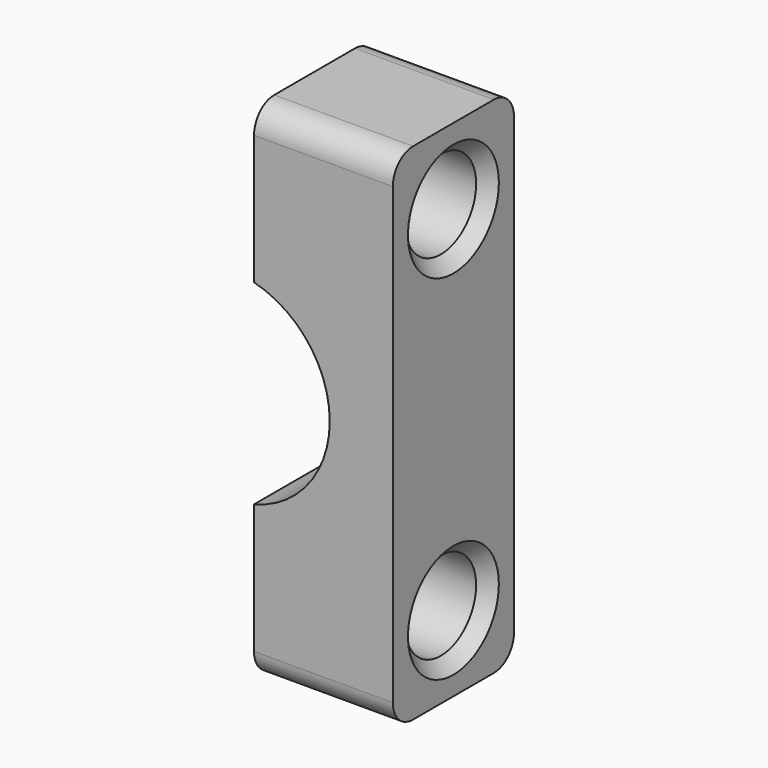
from build123d import *

# Parameters (mm, degrees)
PAD137_DEPTH    = 6
SKETCH639_R     = 1.75
POCKET460_DEPTH = 6.501
CHAMFER026_SIZE = 0.5
FILLET025_R     = 1


with BuildPart() as xy_rod_clamp_left:
    # Sketch638 → Pad137 (new body)
    with BuildSketch(Plane.XZ.offset(1)):
        with BuildLine():
            Line((-1, 3.872983), (-1, 10))
            Line((-1, 10), (-6.5, 10))
            Line((-6.5, 10), (-6.5, -10))
            Line((-6.5, -10), (-1, -10))
            Line((-1, -10), (-1, -3.872983))
            ThreePointArc((-1, 3.872983), (-4, 0), (-1, -3.872983))
        make_face()
    extrude(amount=PAD137_DEPTH)

    # Sketch639 → Pocket460 (cut, through all)
    with BuildSketch(Plane.YZ):
        with Locations((-4, 7)):
            Circle(SKETCH639_R)
        with Locations((-4, -7)):
            Circle(SKETCH639_R)
    extrude(amount=-POCKET460_DEPTH, mode=Mode.SUBTRACT)

    # Chamfer026
    chamfer026_edges = [xy_rod_clamp_left.edges().sort_by_distance(p)[0] for p in [
        (-6.5, -5.75, 7),
        (-6.5, -5.75, -7),
    ]]
    chamfer(chamfer026_edges, length=CHAMFER026_SIZE)

    # Fillet025
    fillet025_edges = [xy_rod_clamp_left.edges().sort_by_distance(p)[0] for p in [
        (-3.75, -7, 10),
        (-3.75, -1, 10),
        (-3.75, -1, -10),
        (-3.75, -7, -10),
    ]]
    fillet(fillet025_edges, radius=FILLET025_R)


with BuildPart() as xy_rod_clamp_left_1:
    # Body201 placement: moved
    add(xy_rod_clamp_left.part.moved(Location((-160, 150, 0))))


with BuildPart() as xy_rod_clamp_right:
    # Part__Mirroring096: instance of xy-rod-clamp-left
    add(xy_rod_clamp_left_1.part.mirror(Plane(origin=(0, 0, 0), x_dir=(0, -1, 0), z_dir=(1, 0, 0))))


solid = xy_rod_clamp_right.part
